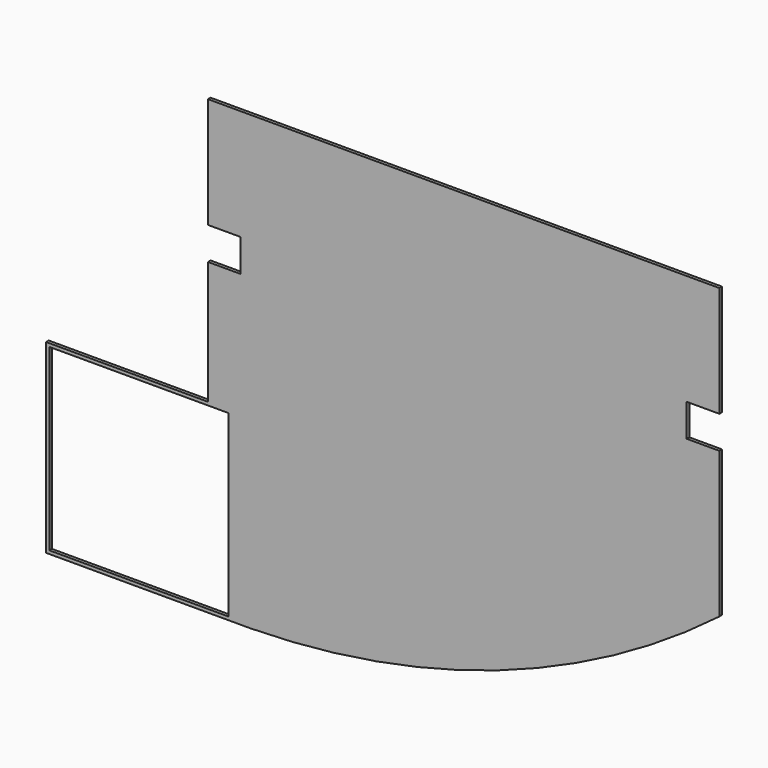
from build123d import *

# Parameters (mm, degrees)
F0_W     = 139.7
F0_H     = 139.7
F1_DEPTH = 2.54
F2_W     = 25.4
F2_H     = 25.4
F3_DEPTH = 25.4
F4_W     = 25.4
F4_H     = 25.4
F5_DEPTH = 25.4


with BuildPart() as f1:
    # F0 (on Front) → F1 (new body)
    with BuildSketch(Plane.XZ):
        with BuildLine():
            Line((300.720289, 79.205069), (-98.059711, 79.205069))
            Line((-98.059711, 79.205069), (-98.059711, -128.566931))
            Line((-98.059711, -128.566931), (-224.297711, -128.566931))
            Line((-224.297711, -128.566931), (-224.297711, -273.346931))
            Line((-224.297711, -273.346931), (-82.057711, -273.346931))
            Line((-82.057711, -273.346931), (-64.778368, -273.346931))
            ThreePointArc((-64.778368, -273.346931), (128.230167, -239.372335), (300.720289, -146.346931))
            Line((300.720289, -146.346931), (300.720289, 79.205069))
        make_face()
        with Locations((-151.907711, -200.956931)):
            Rectangle(F0_W, F0_H, mode=Mode.SUBTRACT)
    extrude(amount=F1_DEPTH)

    # F2 (on face) → F3 (cut)
    with BuildSketch(Plane.XZ.offset(2.54)):
        with Locations((-85.359711, -19.854931)):
            Rectangle(F2_W, F2_H)
    extrude(amount=-F3_DEPTH, mode=Mode.SUBTRACT)

    # F4 (on face) → F5 (cut)
    with BuildSketch(Plane.XZ.offset(2.54)):
        with Locations((288.020289, -19.854931)):
            Rectangle(F4_W, F4_H)
    extrude(amount=-F5_DEPTH, mode=Mode.SUBTRACT)


solid = f1.part
